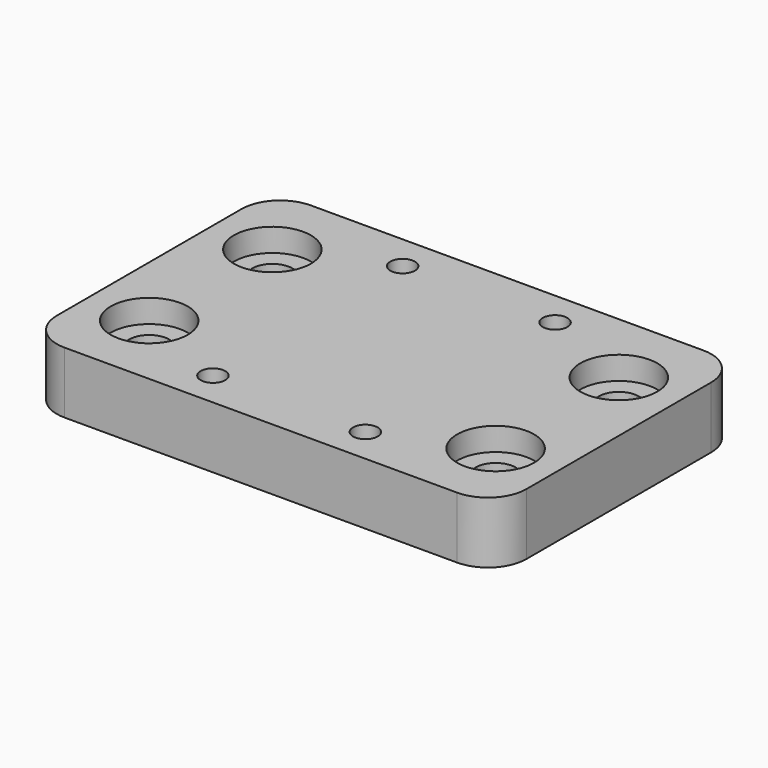
from build123d import *

# Parameters (mm, degrees)
F0_W     = 61
F0_H     = 40
F0_R     = 1.6
F0_R_2   = 2.6
F1_DEPTH = 8
F2_R     = 5
F2_R_2   = 2.6
F3_DEPTH = 3
F4_R     = 1.6
F5_DEPTH = 4
F6_R     = 5


with BuildPart() as f1:
    # F0 (on Top) → F1 (new body)
    with BuildSketch(Plane.XY):
        Rectangle(F0_W, F0_H)
        with Locations((-9.9, -15.4)):
            Circle(F0_R, mode=Mode.SUBTRACT)
        with Locations((-22.5, -10)):
            Circle(F0_R_2, mode=Mode.SUBTRACT)
        with Locations((9.9, -15.4)):
            Circle(F0_R, mode=Mode.SUBTRACT)
        with Locations((22.5, -10)):
            Circle(F0_R_2, mode=Mode.SUBTRACT)
        with Locations((-22.5, 10)):
            Circle(F0_R_2, mode=Mode.SUBTRACT)
        with Locations((-9.9, 15.4)):
            Circle(F0_R, mode=Mode.SUBTRACT)
        with Locations((9.9, 15.4)):
            Circle(F0_R, mode=Mode.SUBTRACT)
        with Locations((22.5, 10)):
            Circle(F0_R_2, mode=Mode.SUBTRACT)
    extrude(amount=F1_DEPTH)

    # F2 (on face) → F3 (cut)
    with BuildSketch(Plane.XY.offset(8)):
        with Locations((-22.5, 10)):
            Circle(F2_R)
        with Locations((-22.5, 10)):
            Circle(F2_R_2, mode=Mode.SUBTRACT)
        with Locations((22.5, 10)):
            Circle(F2_R)
        with Locations((22.5, 10)):
            Circle(F2_R_2, mode=Mode.SUBTRACT)
        with Locations((22.5, -10)):
            Circle(F2_R)
        with Locations((22.5, -10)):
            Circle(F2_R_2, mode=Mode.SUBTRACT)
        with Locations((-22.5, -10)):
            Circle(F2_R)
        with Locations((-22.5, -10)):
            Circle(F2_R_2, mode=Mode.SUBTRACT)
    extrude(amount=-F3_DEPTH, mode=Mode.SUBTRACT)

    # F4 (on face) → F5 (cut)
    with BuildSketch(Plane(origin=(0, 0, 0), x_dir=(1, 0, 0), z_dir=(0, 0, -1))):
        Polygon((-8.167949, 18.4), (-11.632051, 18.4), (-13.364102, 15.4), (-11.632051, 12.4), (-8.167949, 12.4), (-6.435898, 15.4), align=None)
        with Locations((-9.9, 15.4)):
            Circle(F4_R, mode=Mode.SUBTRACT)
        Polygon((11.632051, 18.4), (8.167949, 18.4), (6.435898, 15.4), (8.167949, 12.4), (11.632051, 12.4), (13.364102, 15.4), align=None)
        with Locations((9.9, 15.4)):
            Circle(F4_R, mode=Mode.SUBTRACT)
        Polygon((-8.167949, -12.4), (-11.632051, -12.4), (-13.364102, -15.4), (-11.632051, -18.4), (-8.167949, -18.4), (-6.435898, -15.4), align=None)
        with Locations((-9.9, -15.4)):
            Circle(F4_R, mode=Mode.SUBTRACT)
        Polygon((8.167949, -18.4), (11.632051, -18.4), (13.364102, -15.4), (11.632051, -12.4), (8.167949, -12.4), (6.435898, -15.4), align=None)
        with Locations((9.9, -15.4)):
            Circle(F4_R, mode=Mode.SUBTRACT)
    extrude(amount=-F5_DEPTH, mode=Mode.SUBTRACT)

    # F6
    f6_edges = [f1.edges().sort_by_distance(p)[0] for p in [
        (-30.5, 20, 4),
        (-30.5, -20, 4),
        (30.5, -20, 4),
        (30.5, 20, 4),
    ]]
    fillet(f6_edges, radius=F6_R)


solid = f1.part
